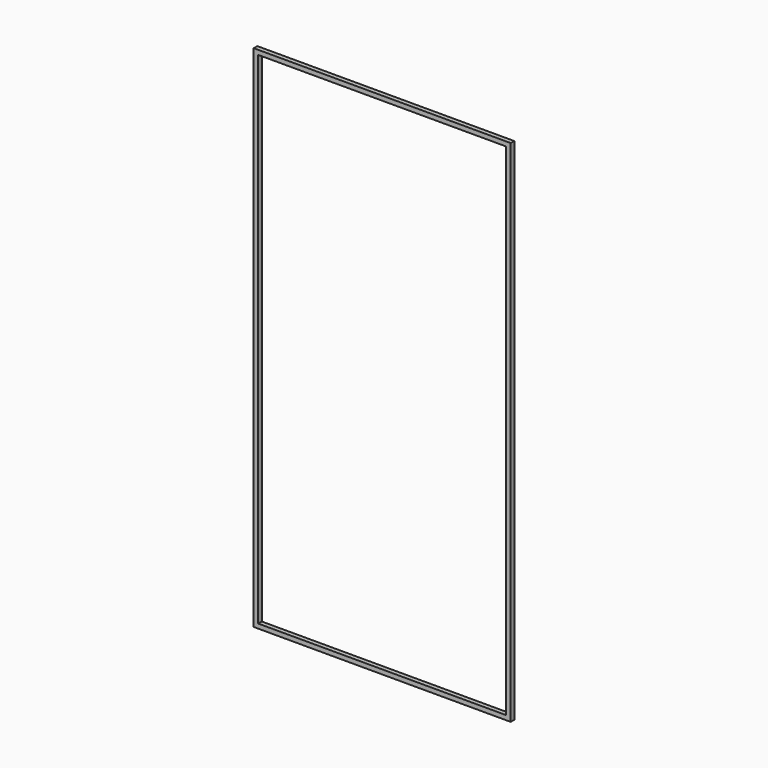
from build123d import *

# Parameters (mm, degrees)
F0_W     = 277
F0_H     = 5
F1_DEPTH = 5


with BuildPart() as f1:
    # F0 (on Front) → F1 (new body)
    with BuildSketch(Plane.XZ):
        Polygon((-138.5, -279.5), (-138.5, 279.5), (-138.5, 284.5), (-143.5, 284.5), (-143.5, -284.5), (-138.5, -284.5), align=None)
        with Locations((0, 282)):
            Rectangle(F0_W, F0_H)
        Polygon((138.5, 284.5), (138.5, 279.5), (138.5, -279.5), (138.5, -284.5), (143.5, -284.5), (143.5, 284.5), align=None)
        with Locations((0, -282)):
            Rectangle(F0_W, F0_H)
    extrude(amount=F1_DEPTH)


solid = f1.part
